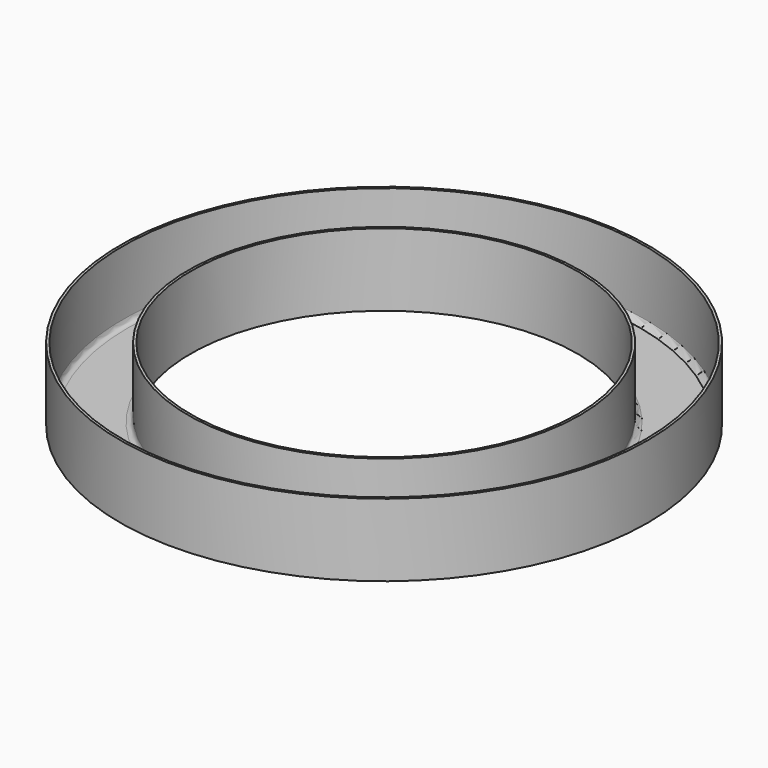
from build123d import *

# Parameters (mm, degrees)
F0_R     = 72.7
F0_R_2   = 53.3
F1_DEPTH = 20
F2_T     = -0.7
F3_R     = 1.5


with BuildPart() as f1:
    # F0 (on Top) → F1 (new body)
    with BuildSketch(Plane.XY):
        Circle(F0_R)
        Circle(F0_R_2, mode=Mode.SUBTRACT)
    extrude(amount=F1_DEPTH)

    # F2
    f2_openings = [f1.faces().sort_by_distance(p)[0] for p in [
        (-70.643733, 0, 20),
    ]]
    offset(amount=F2_T, openings=f2_openings)

    # F3
    f3_edges = [f1.edges().sort_by_distance(p)[0] for p in [
        (-72, 0, 0.7),
        (-54, 0, 0.7),
    ]]
    fillet(f3_edges, radius=F3_R)


solid = f1.part
